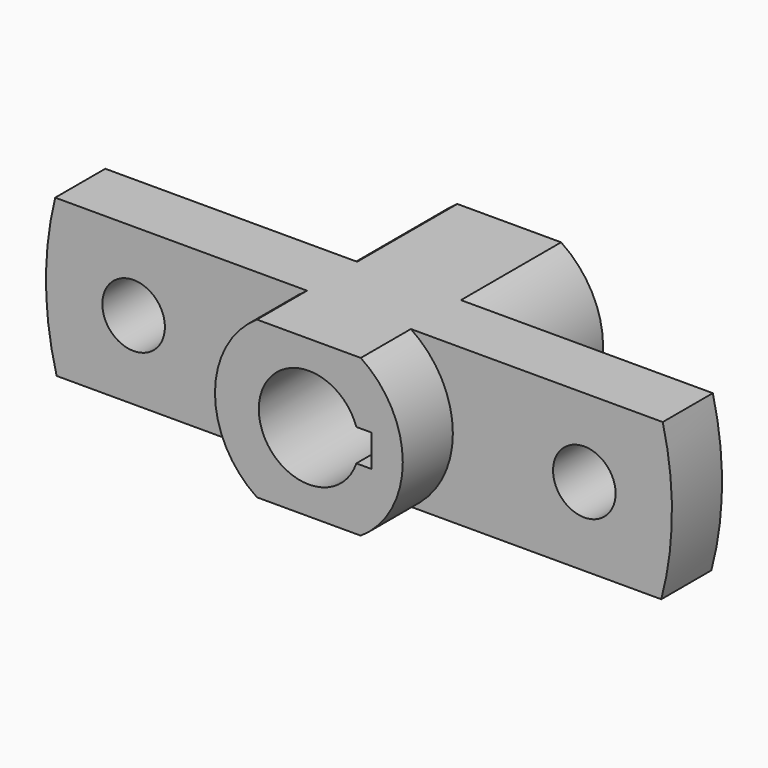
from build123d import *

# Parameters (mm, degrees)
F1_DEPTH = 40
F2_START = 20
F0_R     = 5
F2_DEPTH = 10


with BuildPart() as f1:
    # F0 (on Front) → F1 (new body)
    with BuildSketch(Plane.XZ):
        with BuildLine():
            Line((8.2915619759, 12.5), (-8.2915619759, 12.5))
            ThreePointArc((-8.2915619759, 12.5), (-15, 0), (-8.2915619759, -12.5))
            Line((-8.2915619759, -12.5), (8.2915619759, -12.5))
            ThreePointArc((8.2915619759, -12.5), (15, 0), (8.2915619759, 12.5))
        make_face()
        with BuildLine():
            ThreePointArc((7.5790573261, -2.5608377629), (-8, 0), (7.5790573261, 2.5608377629))
            Line((7.5790573261, 2.5608377629), (10, 2.5608377629))
            Line((10, 2.5608377629), (10, -2.5608377629))
            Line((10, -2.5608377629), (7.5790573261, -2.5608377629))
        make_face(mode=Mode.SUBTRACT)
    extrude(amount=F1_DEPTH)

    # F0 (on Front) → F2 (join)
    with BuildSketch(Plane.XZ.offset(F2_START)):
        with BuildLine():
            ThreePointArc((-8.2915619759, -12.5), (-15, 0), (-8.2915619759, 12.5))
            Line((-8.2915619759, 12.5), (-48.5272801842, 12.5))
            ThreePointArc((-48.5272801842, 12.5), (-49.9987826214, -0.0147697346), (-48.294726827, -12.5))
            Line((-48.294726827, -12.5), (-8.2915619759, -12.5))
        make_face()
        with Locations((-36, 0)):
            Circle(F0_R, mode=Mode.SUBTRACT)
        with BuildLine():
            Line((48.5253887371, 12.5), (8.2915619759, 12.5))
            ThreePointArc((8.2915619759, 12.5), (15, 0), (8.2915619759, -12.5))
            Line((8.2915619759, -12.5), (48.2928353799, -12.5))
            ThreePointArc((48.2928353799, -12.5), (49.9968911743, -0.0147697346), (48.5253887371, 12.5))
        make_face()
        with Locations((36, 0)):
            Circle(F0_R, mode=Mode.SUBTRACT)
    extrude(amount=F2_DEPTH)


solid = f1.part
